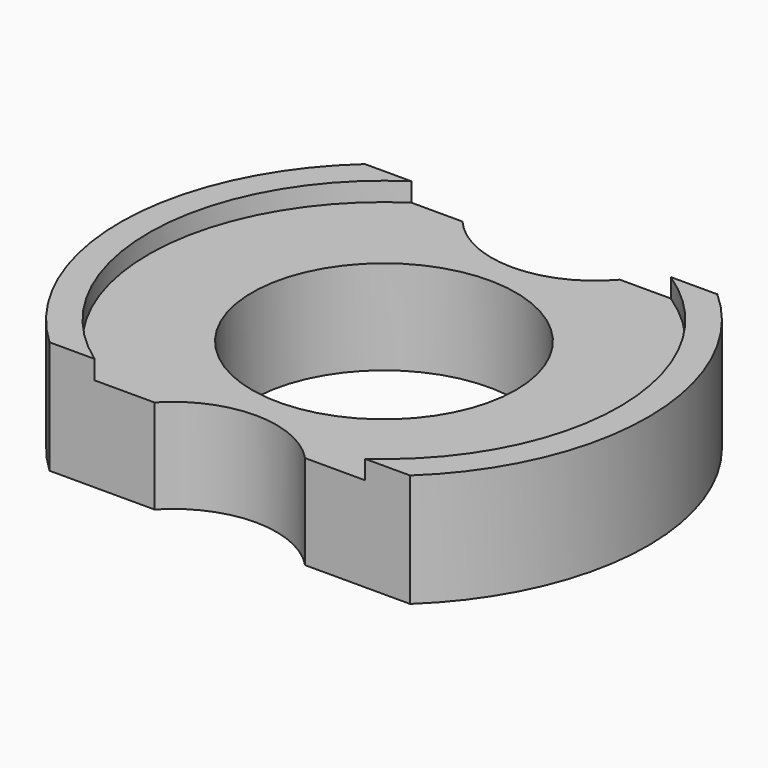
from build123d import *

# Parameters (mm, degrees)
F0_R     = 177.8
F1_DEPTH = 76.2
F2_R     = 88.9
F3_DEPTH = 254
F4_R     = 69.85
F5_DEPTH = 254
F6_W     = 462.104425
F6_H     = 46.355292
F6_W_2   = 466.450229
F6_H_2   = 34.23076
F7_DEPTH = 254
F8_R     = 158.592368
F9_DEPTH = 12.7


with BuildPart() as f1:
    # F0 (on Top) → F1 (new body)
    with BuildSketch(Plane.XY):
        Circle(F0_R)
    extrude(amount=F1_DEPTH)

    # F2 (on face) → F3 (cut)
    with BuildSketch(Plane.XY.offset(76.2)):
        Circle(F2_R)
    extrude(amount=-F3_DEPTH, mode=Mode.SUBTRACT)

    # F4 (on face) → F5 (cut)
    with BuildSketch(Plane.XY.offset(76.2)):
        with Locations((0, 177.8)):
            Circle(F4_R)
        with Locations((0, -177.8)):
            Circle(F4_R)
    extrude(amount=-F5_DEPTH, mode=Mode.SUBTRACT)

    # F6 (on face) → F7 (cut)
    with BuildSketch(Plane.XY.offset(76.2)):
        with Locations((-1.086809, 155.526124)):
            Rectangle(F6_W, F6_H)
        with Locations((1.086094, -146.964084)):
            Rectangle(F6_W_2, F6_H_2)
    extrude(amount=-F7_DEPTH, mode=Mode.SUBTRACT)

    # F8 (on face) → F9 (cut)
    with BuildSketch(Plane.XY.offset(76.2)):
        Circle(F8_R)
    extrude(amount=-F9_DEPTH, mode=Mode.SUBTRACT)


solid = f1.part
